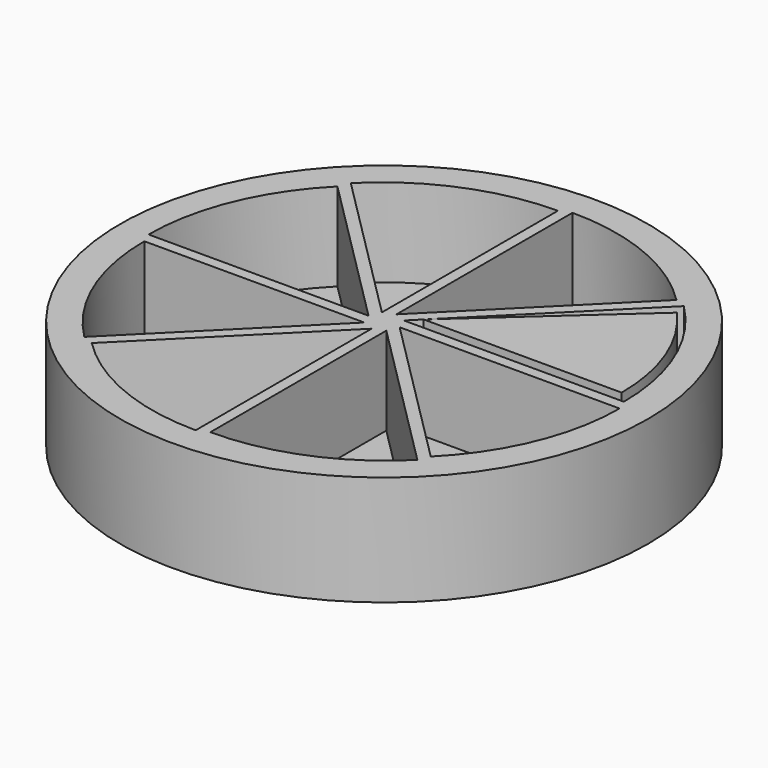
from build123d import *

# Parameters (mm, degrees)
CYLINDER001_W     = 20
CYLINDER001_H     = 8
CYLINDER001_ANGLE = 45
ARRAY_COUNT       = 8
CYLINDER_R        = 24
CYLINDER_DEPTH    = 10
CYLINDER002_W     = 18
CYLINDER002_H     = 10
CYLINDER002_ANGLE = 42


with BuildPart() as array:
    # Cylinder001 → Cylinder001 (revolve)
    with BuildSketch(Plane(origin=(1, 1, 2), x_dir=(1, 0, 0), z_dir=(0, -1, 0))):
        with Locations((10, 4)):
            Rectangle(CYLINDER001_W, CYLINDER001_H)
    revolve(axis=Axis((1, 1, 2), (0, 0, 1)), revolution_arc=CYLINDER001_ANGLE)

    # Array: Array ×8 about axis
    array_axis = Axis((0, 0, 0), (0, 0, 1))


with BuildPart() as array_1:
    add(array.part)
    for i in range(1, ARRAY_COUNT):
        add(array.part.rotate(array_axis, i * 360 / ARRAY_COUNT))


with BuildPart() as cut:
    # Cylinder → Cylinder (new body)
    with BuildSketch(Plane.XY):
        Circle(CYLINDER_R)
    extrude(amount=CYLINDER_DEPTH)

    # Cut: cut Array
    add(array_1.part, mode=Mode.SUBTRACT)


with BuildPart() as cilindro002:
    # Cylinder002 → Cylinder002 (revolve)
    with BuildSketch(Plane(origin=(2, 2, 0), x_dir=(1, 0, 0), z_dir=(0, -1, 0))):
        with Locations((9, 5)):
            Rectangle(CYLINDER002_W, CYLINDER002_H)
    revolve(axis=Axis((2, 2, 0), (0, 0, 1)), revolution_arc=CYLINDER002_ANGLE)


solid = Compound([cut.part, cilindro002.part])
